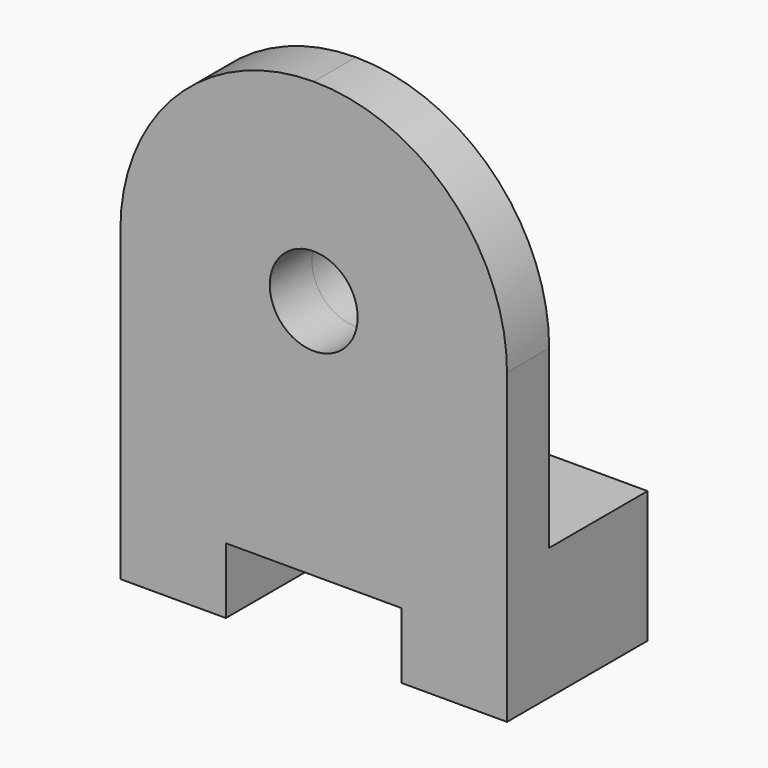
from build123d import *

# Parameters (mm, degrees)
F1_DEPTH      = 12
F1_DEPTH_BACK = 28
F0_R          = 20
F2_DEPTH      = 12
F0_R_2        = 10
F3_DEPTH      = 12
F3_DEPTH_BACK = 16


with BuildPart() as f1:
    # F0 (on Front) → F1 (new body, two sides)
    with BuildSketch(Plane.XZ) as f1_sk:
        Polygon((44, -40), (-44, -40), (-44, -70), (-20, -70), (-20, -55), (20, -55), (20, -70), (44, -70), align=None)
    extrude(amount=F1_DEPTH)
    extrude(f1_sk.sketch, amount=-F1_DEPTH_BACK)

    # F0 (on Front) → F2 (join)
    with BuildSketch(Plane.XZ):
        with BuildLine():
            Line((-44, 0), (-44, -40))
            Line((-44, -40), (44, -40))
            Line((44, -40), (44, 0))
            ThreePointArc((44, 0), (31.112698, 31.112698), (0, 44))
            ThreePointArc((0, 44), (-31.112698, 31.112698), (-44, 0))
        make_face()
        Circle(F0_R, mode=Mode.SUBTRACT)
        Polygon((44, -40), (-44, -40), (-44, -70), (-20, -70), (-20, -55), (20, -55), (20, -70), (44, -70), align=None)
    extrude(amount=F2_DEPTH)

    # F0 (on Front) → F3 (join, two sides)
    with BuildSketch(Plane.XZ) as f3_sk:
        Circle(F0_R)
        Circle(F0_R_2, mode=Mode.SUBTRACT)
    extrude(amount=F3_DEPTH)
    extrude(f3_sk.sketch, amount=-F3_DEPTH_BACK)


solid = f1.part
